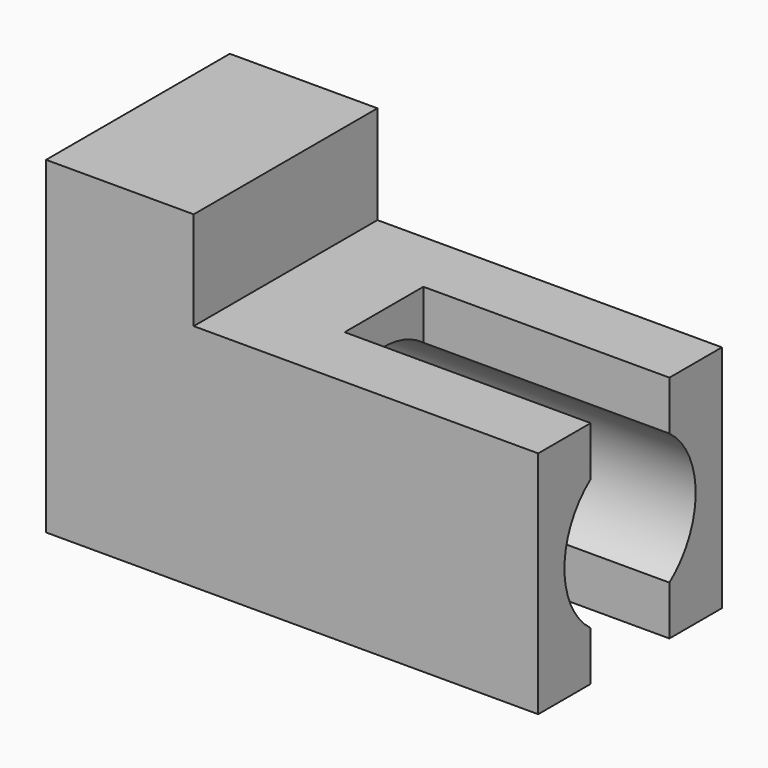
from build123d import *

# Parameters (mm, degrees)
F1_DEPTH = 28
F2_W     = 12
F2_H     = 28
F3_DEPTH = 25
F4_DEPTH = 25
F5_W     = 12
F5_H     = 28
F6_DEPTH = 30
F8_DEPTH = 60


with BuildPart() as f1:
    # F0 (on Front) → F1 (new body)
    with BuildSketch(Plane.XZ):
        Polygon((-60, 0), (0, 0), (0, 28), (-42, 28), (-42, 40), (-60, 40), align=None)
    extrude(amount=F1_DEPTH)

    # F2 (on face) → F3 (join)
    with BuildSketch(Plane.YZ):
        with Locations((-14, 14)):
            Rectangle(F2_W, F2_H)
    extrude(amount=F3_DEPTH)

    # F4 (cut): a face of the model
    f4_faces = [f1.faces().sort_by_distance(p)[0] for p in [
        (25, -14, 14),
    ]]
    extrude(f4_faces, amount=-F4_DEPTH, mode=Mode.SUBTRACT)

    # F5 (on face) → F6 (cut)
    with BuildSketch(Plane.YZ):
        with Locations((-14, 14)):
            Rectangle(F5_W, F5_H)
    extrude(amount=-F6_DEPTH, mode=Mode.SUBTRACT)

    # F7 (on face) → F8 (cut)
    with BuildSketch(Plane.YZ):
        with BuildLine():
            Line((-20, 22), (-20, 14))
            Line((-20, 14), (-20, 6))
            ThreePointArc((-20, 6), (-9.527864045, 5.05572809), (-4, 14))
            ThreePointArc((-4, 14), (-9.527864045, 22.94427191), (-20, 22))
        make_face()
        with BuildLine():
            Line((-20, 14), (-24, 14))
            ThreePointArc((-24, 14), (-22.94427191, 9.527864045), (-20, 6))
            Line((-20, 6), (-20, 14))
        make_face()
        with BuildLine():
            ThreePointArc((-20, 22), (-22.94427191, 18.472135955), (-24, 14))
            Line((-24, 14), (-20, 14))
            Line((-20, 14), (-20, 22))
        make_face()
    extrude(amount=-F8_DEPTH, mode=Mode.SUBTRACT)


solid = f1.part
